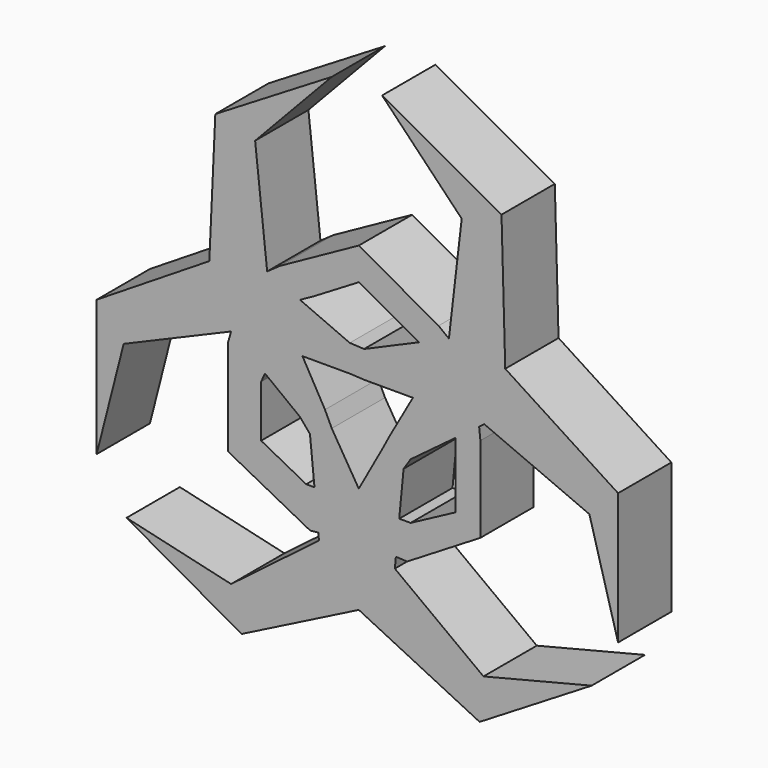
from build123d import *

# Parameters (mm, degrees)
F1_DEPTH = 11.938


with BuildPart() as f1:
    # F0 (on Front) → F1 (new body)
    with BuildSketch(Plane.XZ):
        Polygon((7.244087, -15.494361), (8.028157, -7.369285), (9.286274, -5.450639), (17.284026, 0.506869), (21.556516, 3.689438), (22.475477, 4.37397), (41.317191, -3.701051), (46.454154, -22.2736), (46.454154, 1.278545), (26.24008, 14.333059), (25.570901, 38.423643), (4.172095, 50.267007), (18.437967, 35.4628), (16.150042, 15.813584), (10.800948, 13.494065), (0.942086, 9.218982), (-1.615004, 9.353566), (-10.532528, 13.244849), (-16.41921, 15.813584), (-18.572548, 35.731968), (-4.845012, 50.267007), (-25.705485, 37.616141), (-26.782153, 14.063995), (-46.969702, 1.413129), (-46.969702, -22.946518), (-42.124692, -3.970219), (-22.879226, 4.239386), (-16.818985, -0.400245), (-10.573792, -5.181472), (-8.74794, -7.334811), (-7.940438, -15.477124), (-7.253092, -22.407865), (-7.132936, -23.619438), (-22.879226, -35.597384), (-41.611747, -31.244581), (-20.995054, -42.8649), (0, -32.232791), (21.649289, -42.8649), (41.720942, -30.617788), (22.340892, -35.4628), (6.460017, -23.619438), (6.646432, -21.687676), align=None)
        Polygon((-6.056266, -2.624382), (-10.093777, 4.508554), (-1.480421, 4.508554), (0.942086, 4.37397), (9.690027, 4.37397), (5.517932, -3.028133), (4.306678, -5.316055), (0, -13.121909), (-4.845012, -5.181472), align=None, mode=Mode.SUBTRACT)
        Polygon((9.286274, -15.494361), (7.244087, -15.494361), (6.646432, -21.687676), (8.67965, -21.780623), (21.788054, -13.782274), (21.788054, 1.547712), (21.556516, 3.689438), (17.284026, 0.506869), (17.284026, -1.200508), (17.284026, -11.237738), align=None)
        Polygon((-8.719093, -22.553253), (-7.253092, -22.407865), (-7.940438, -15.477124), (-9.420858, -15.477124), (-17.49588, -11.237738), (-17.49588, -1.951463), (-16.818985, -0.400245), (-22.879226, 4.239386), (-23.417562, 2.355214), (-23.417562, -14.871498), align=None)
        Polygon((10.800948, 13.494065), (16.150042, 15.813584), (14.29391, 17.229343), (0, 25.234442), (-14.131287, 17.428586), (-16.41921, 15.813584), (-10.532528, 13.244849), (-8.075021, 14.60233), (0, 19.447342), (8.546064, 14.736914), align=None)
    extrude(amount=F1_DEPTH)


solid = f1.part
